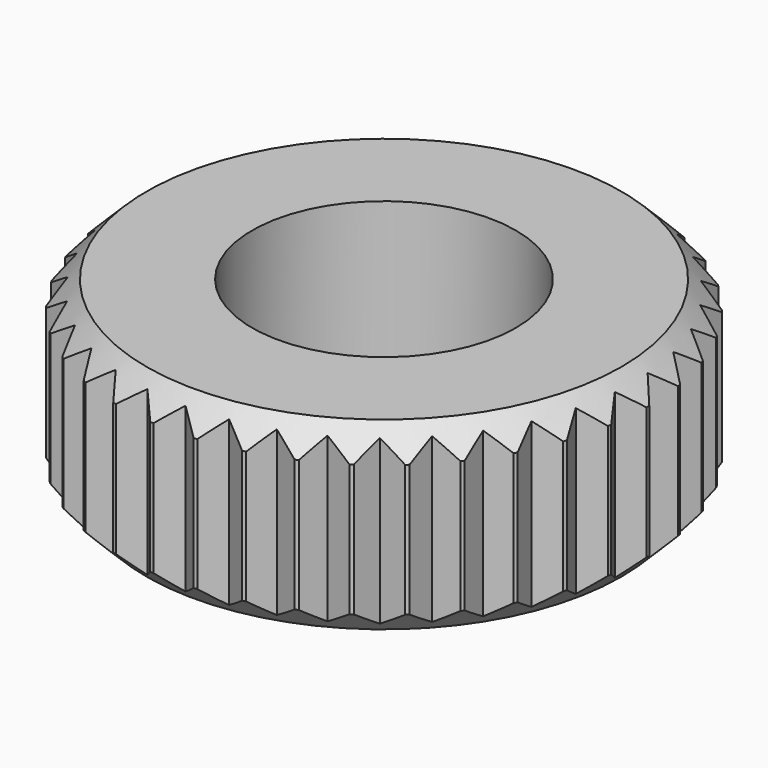
from build123d import *

# Parameters (mm, degrees)
F0_R          = 10
F0_R_2        = 5
F1_DEPTH      = 7
F2_SIZE       = 1
F3_R          = 11.3100370754
F4_DEPTH      = 25
F4_DEPTH_BACK = 25


with BuildPart() as f1:
    # F0 (on Top) → F1 (new body)
    with BuildSketch(Plane.XY):
        Circle(F0_R)
        Circle(F0_R_2, mode=Mode.SUBTRACT)
    extrude(amount=F1_DEPTH)

    # F2
    f2_edges = [f1.edges().sort_by_distance(p)[0] for p in [
        (-10, 0, 7),
        (-10, 0, 0),
    ]]
    chamfer(f2_edges, length=F2_SIZE)

    # F3 (on Top) → F4 (cut, two sides)
    with BuildSketch(Plane.XY) as f4_sk:
        Circle(F3_R)
        Polygon((-0.8305830461, 10.0236467025), (0, 9.4011723995), (0.8305830461, 10.0236467025), (1.5473821193, 9.2729526615), (2.4690929981, 9.7502277502), (3.052555688, 8.8917909477), (4.0402525295, 9.2108480018), (4.474463495, 8.2680843559), (5.5012045041, 8.4202203307), (5.774319602, 7.4188459763), (6.8120979603, 7.399910999), (6.9166673227, 6.3672408179), (7.937175142, 6.1777513853), (7.8703463892, 5.1419539281), (8.8457468766, 4.787078818), (8.6093429228, 3.7764079393), (9.5130296954, 3.2658272195), (9.1134990242, 2.3078513862), (9.9208218628, 1.6554923679), (9.3690626294, 0.7763426634), (10.0579998714, 0), (9.3690626294, -0.7763426634), (9.9208218628, -1.6554923679), (9.1134990242, -2.3078513862), (9.5130296954, -3.2658272195), (8.6093429228, -3.7764079393), (8.8457468766, -4.787078818), (7.8703463892, -5.1419539281), (7.937175142, -6.1777513853), (6.9166673227, -6.3672408179), (6.8120979603, -7.399910999), (5.774319602, -7.4188459763), (5.5012045041, -8.4202203307), (4.474463495, -8.2680843559), (4.0402525295, -9.2108480018), (3.052555688, -8.8917909477), (2.4690929981, -9.7502277502), (1.5473821193, -9.2729526615), (0.8305830461, -10.0236467025), (0, -9.4011723995), (-0.8305830461, -10.0236467025), (-1.5473821193, -9.2729526615), (-2.4690929981, -9.7502277502), (-3.052555688, -8.8917909477), (-4.0402525295, -9.2108480018), (-4.474463495, -8.2680843559), (-5.5012045041, -8.4202203307), (-5.774319602, -7.4188459763), (-6.8120979603, -7.399910999), (-6.9166673227, -6.3672408179), (-7.937175142, -6.1777513853), (-7.8703463892, -5.1419539281), (-8.8457468766, -4.787078818), (-8.6093429228, -3.7764079393), (-9.5130296954, -3.2658272195), (-9.1134990242, -2.3078513862), (-9.9208218628, -1.6554923679), (-9.3690626294, -0.7763426634), (-10.0579998714, 0), (-9.3690626294, 0.7763426634), (-9.9208218628, 1.6554923679), (-9.1134990242, 2.3078513862), (-9.5130296954, 3.2658272195), (-8.6093429228, 3.7764079393), (-8.8457468766, 4.787078818), (-7.8703463892, 5.1419539281), (-7.937175142, 6.1777513853), (-6.9166673227, 6.3672408179), (-6.8120979603, 7.399910999), (-5.774319602, 7.4188459763), (-5.5012045041, 8.4202203307), (-4.474463495, 8.2680843559), (-4.0402525295, 9.2108480018), (-3.052555688, 8.8917909477), (-2.4690929981, 9.7502277502), (-1.5473821193, 9.2729526615), align=None, mode=Mode.SUBTRACT)
    extrude(amount=-F4_DEPTH, mode=Mode.SUBTRACT)
    extrude(f4_sk.sketch, amount=F4_DEPTH_BACK, mode=Mode.SUBTRACT)


solid = f1.part
